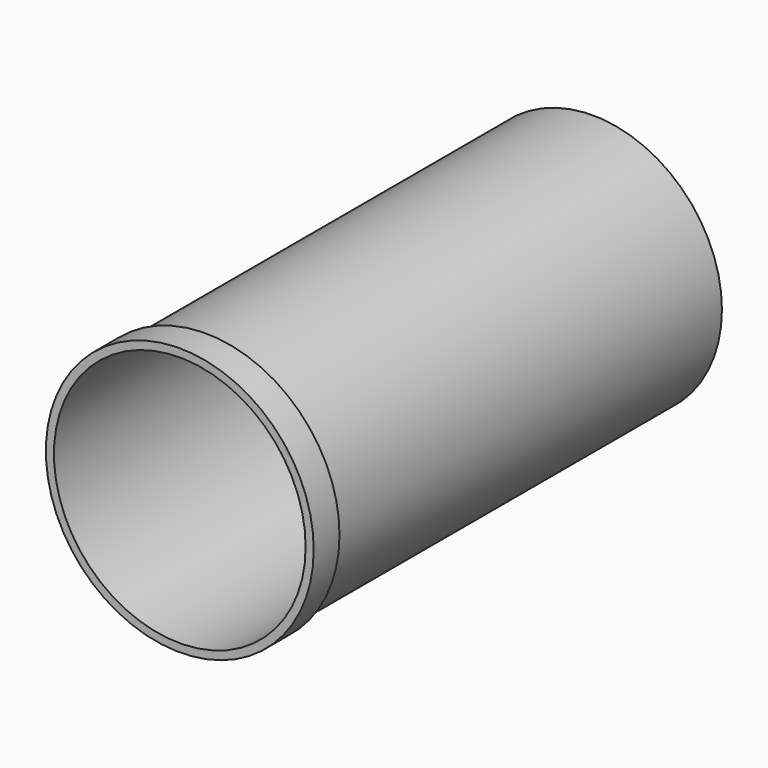
from build123d import *

# Parameters (mm, degrees)
F0_R     = 40
F0_R_2   = 39
F1_DEPTH = 150
F2_R     = 41.5
F2_R_2   = 39
F3_DEPTH = 10


with BuildPart() as f1:
    # F0 (on Front) → F1 (new body)
    with BuildSketch(Plane.XZ):
        Circle(F0_R)
        Circle(F0_R_2, mode=Mode.SUBTRACT)
    extrude(amount=-F1_DEPTH)

    # F2 (on face) → F3 (join)
    with BuildSketch(Plane.XZ):
        Circle(F2_R)
        Circle(F2_R_2, mode=Mode.SUBTRACT)
    extrude(amount=F3_DEPTH)


solid = f1.part
